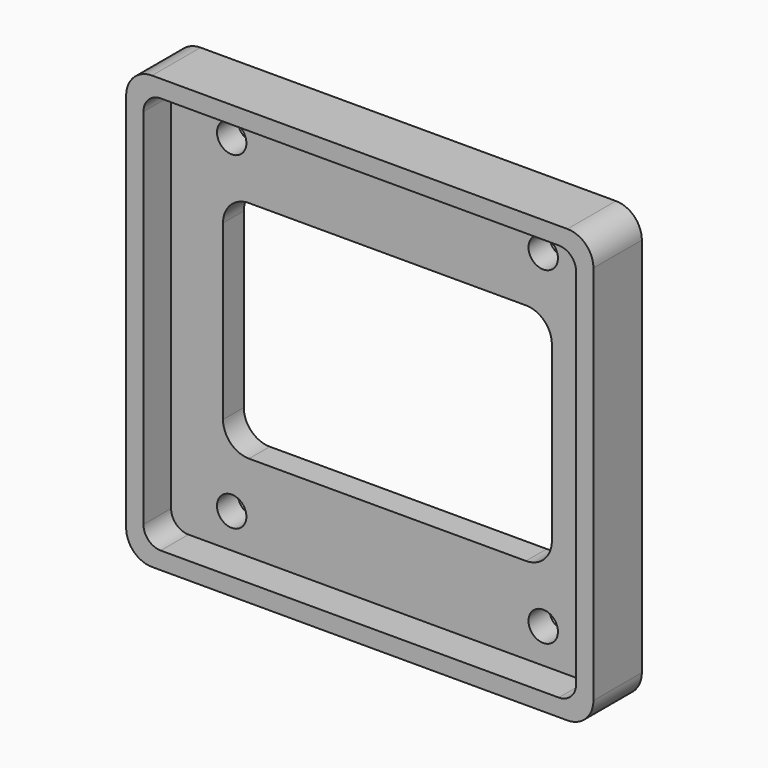
from build123d import *

# Parameters (mm, degrees)
F0_W     = 54
F0_H     = 50
F1_DEPTH = 7
F3_D     = 3.4
F5_DEPTH = 25
F7_DEPTH = 4
F8_R     = 3


with BuildPart() as f1:
    # F0 (on Front) → F1 (new body)
    with BuildSketch(Plane.XZ):
        with Locations((27, 25)):
            Rectangle(F0_W, F0_H)
    extrude(amount=F1_DEPTH)

    # F3 (through all)
    with Locations(Plane.XZ.offset(7)):
        with Locations((9, 44), (45, 44), (9, 6), (45, 6)):
            Hole(F3_D / 2)

    # F4 (on face) → F5 (cut)
    with BuildSketch(Plane.XZ.offset(7)):
        with BuildLine():
            Line((43, 38), (11, 38))
            ThreePointArc((11, 38), (8.8786796564, 37.1213203436), (8, 35))
            Line((8, 35), (8, 15))
            ThreePointArc((8, 15), (8.8786796564, 12.8786796564), (11, 12))
            Line((11, 12), (43, 12))
            ThreePointArc((43, 12), (45.1213203436, 12.8786796564), (46, 15))
            Line((46, 15), (46, 35))
            ThreePointArc((46, 35), (45.1213203436, 37.1213203436), (43, 38))
        make_face()
    extrude(amount=-F5_DEPTH, mode=Mode.SUBTRACT)

    # F6 (on face) → F7 (cut)
    with BuildSketch(Plane.XZ.offset(7)):
        with BuildLine():
            Line((4.1184528013, 47.9964891519), (3.881241658, 47.9964710006))
            ThreePointArc((3.881241658, 47.9964710006), (2.5444044717, 47.3715836314), (2, 46))
            ThreePointArc((2, 46), (4, 44), (6, 46))
            ThreePointArc((6, 46), (5.4554905707, 47.3716950093), (4.1184528013, 47.9964891519))
        make_face()
        with BuildLine():
            ThreePointArc((4.1184528013, 47.9964891519), (3.9998469603, 47.9999999941), (3.881241658, 47.9964710006))
            Line((3.881241658, 47.9964710006), (4.1184528013, 47.9964891519))
        make_face()
        with BuildLine():
            ThreePointArc((6, 46), (4, 44), (2, 46))
            Line((2, 46), (2, 4))
            ThreePointArc((2, 4), (4, 6), (6, 4))
            ThreePointArc((6, 4), (5.4142135624, 2.5857864376), (4, 2))
            Line((4, 2), (50, 2))
            ThreePointArc((50, 2), (48.5857864376, 5.4142135624), (52, 4))
            Line((52, 4), (52, 46))
            ThreePointArc((52, 46), (48.5857864376, 44.5857864376), (50, 48))
            Line((50, 48), (4.1184528013, 47.9964891519))
            ThreePointArc((4.1184528013, 47.9964891519), (5.4554905707, 47.3716950093), (6, 46))
        make_face()
        with BuildLine():
            Line((4, 2), (2, 4))
            ThreePointArc((2, 4), (2.5857864376, 2.5857864376), (4, 2))
        make_face()
        with BuildLine():
            ThreePointArc((6, 4), (4, 6), (2, 4))
            Line((2, 4), (4, 2))
            ThreePointArc((4, 2), (5.4142135624, 2.5857864376), (6, 4))
        make_face()
        with BuildLine():
            Line((52, 46), (50, 48))
            ThreePointArc((50, 48), (48.5857864376, 44.5857864376), (52, 46))
        make_face()
        with BuildLine():
            ThreePointArc((52, 46), (51.4142135624, 47.4142135624), (50, 48))
            Line((50, 48), (52, 46))
        make_face()
        with BuildLine():
            Line((52, 4), (50, 2))
            ThreePointArc((50, 2), (51.4142135624, 2.5857864376), (52, 4))
        make_face()
        with BuildLine():
            ThreePointArc((52, 4), (48.5857864376, 5.4142135624), (50, 2))
            Line((50, 2), (52, 4))
        make_face()
    extrude(amount=-F7_DEPTH, mode=Mode.SUBTRACT)

    # F8
    f8_edges = [f1.edges().sort_by_distance(p)[0] for p in [
        (54, -3.5, 50),
        (54, -3.5, 0),
        (0, -3.5, 0),
        (0, -3.5, 50),
    ]]
    fillet(f8_edges, radius=F8_R)


solid = f1.part
